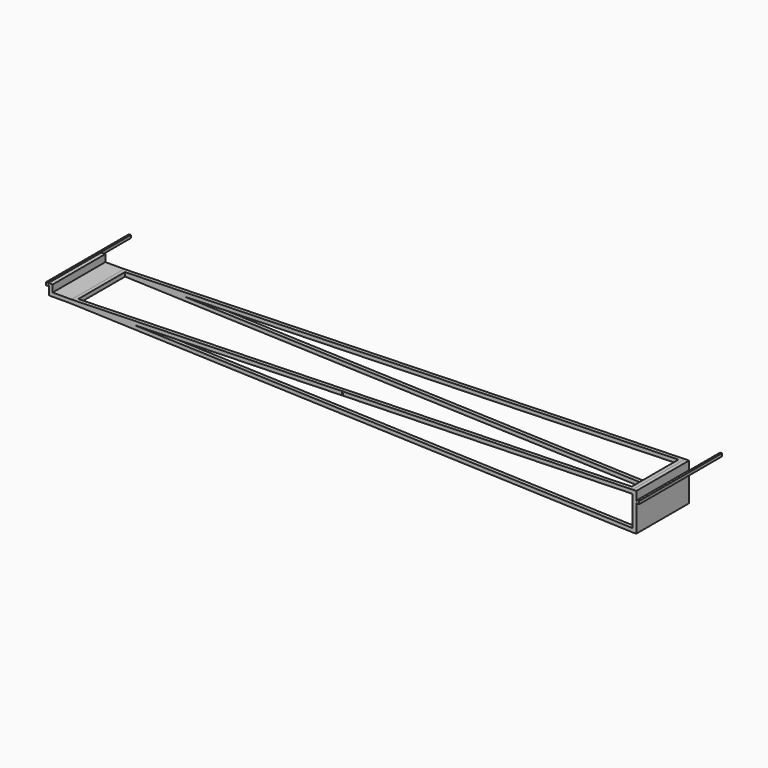
from build123d import *

# Parameters (mm, degrees)
F1_DEPTH  = 350
F3_W      = 2941.07
F3_H      = 310
F4_DEPTH  = 250
F6_W      = 10
F6_H      = 15
F7_DEPTH  = 200
F10_D     = 5
F10_DEPTH = 50
F10_TIP   = 1.5021515476


with BuildPart() as f1:
    # F0 (on Front) → F1 (new body)
    with BuildSketch(Plane.XZ):
        Polygon((-2990, -50), (-10, -150), (10, -150), (10, -5), (15, -5), (15, -7.5), (25, -7.5), (25, 7.5), (15, 7.5), (15, 5), (10, 5), (10, 50), (-10, 50), (-2990, -30), (-3090, -30), (-3090, 7.5), (-3110, 7.5), (-3110, 5), (-3115, 5), (-3115, 7.5), (-3125, 7.5), (-3125, -7.5), (-3115, -7.5), (-3115, -5), (-3110, -5), (-3110, -50), align=None)
        Polygon((-2658.8888888889, -41.1111111111), (-10, 30), (-10, -130), align=None, mode=Mode.SUBTRACT)
    extrude(amount=F1_DEPTH)

    # F3 (on offset) → F4 (cut)
    with BuildSketch(Plane(origin=(-1.3485169015, 0, 50.2322545798), x_dir=(0.9996398505, 0, 0.0268359691), z_dir=(-0.0268359691, 0, 0.9996398505))):
        with Locations((-1499.1932015429, -175)):
            Rectangle(F3_W, F3_H)
    extrude(amount=-F4_DEPTH, mode=Mode.SUBTRACT)

    # F6 (on offset) → F7 (join)
    with BuildSketch(Plane(origin=(0, 0, 0), x_dir=(-1, 0, 0), z_dir=(0, 1, 0))):
        with Locations((-20, 0)):
            Rectangle(F6_W, F6_H)
        with Locations((3120, 0)):
            Rectangle(F6_W, F6_H)
    extrude(amount=F7_DEPTH)

    # F10
    with Locations(Plane(origin=(-1.3485169015, 0, 50.2322545798), x_dir=(0.9996398505, 0, 0.0268359691), z_dir=(-0.0268359691, 0, 0.9996398505))):
        with Locations((-1549.191416098, -350)):
            Hole(F10_D / 2, depth=F10_DEPTH)
            with Locations((0, 0, -(F10_DEPTH + F10_TIP / 2))):  # 118° drill point
                Cone(0, F10_D / 2, F10_TIP, mode=Mode.SUBTRACT)


solid = f1.part
